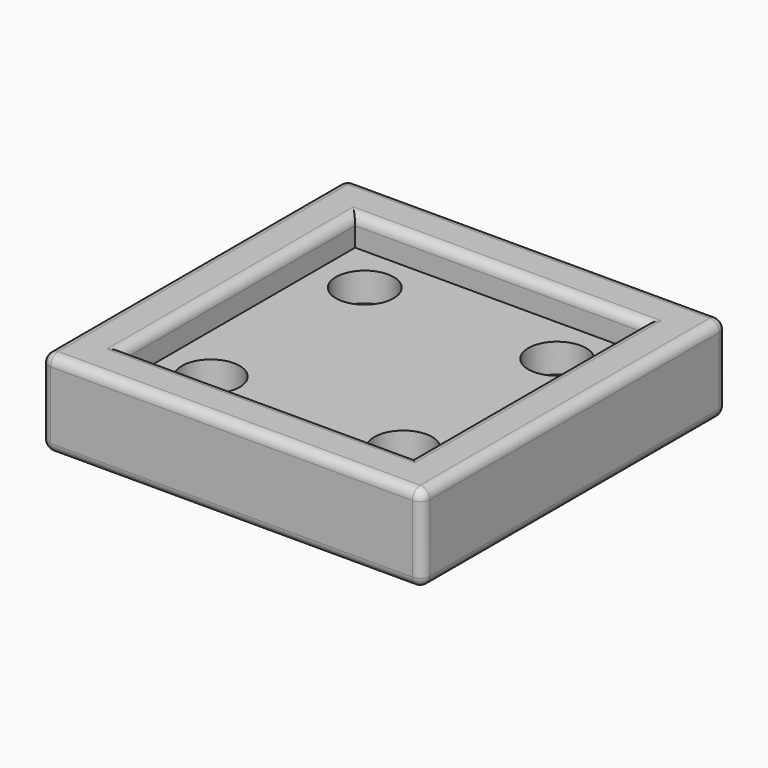
from build123d import *

# Parameters (mm, degrees)
SKETCH_W        = 39.6
SKETCH_H        = 39.6
PAD_DEPTH       = 9
SKETCH001_R     = 1.75
POCKET_DEPTH    = 10
SKETCH002_R     = 3
POCKET001_DEPTH = 6
SKETCH003_W     = 30
SKETCH003_H     = 30
POCKET002_DEPTH = 3
FILLET_R        = 1


with BuildPart() as part:
    # Sketch → Pad (new body)
    with BuildSketch(Plane.XY):
        with Locations((19.8, 19.8)):
            Rectangle(SKETCH_W, SKETCH_H)
    extrude(amount=PAD_DEPTH)

    # Sketch001 → Pocket (cut)
    with BuildSketch(Plane.XY.offset(9)):
        with Locations((9.8, 9.8)):
            Circle(SKETCH001_R)
        with Locations((9.8, 29.8)):
            Circle(SKETCH001_R)
        with Locations((29.8, 9.8)):
            Circle(SKETCH001_R)
        with Locations((29.8, 29.8)):
            Circle(SKETCH001_R)
    extrude(amount=-POCKET_DEPTH, mode=Mode.SUBTRACT)

    # Sketch002 → Pocket001 (cut)
    with BuildSketch(Plane.XY.offset(9)):
        with Locations((9.8, 9.8)):
            Circle(SKETCH002_R)
        with Locations((9.8, 29.8)):
            Circle(SKETCH002_R)
        with Locations((29.8, 9.8)):
            Circle(SKETCH002_R)
        with Locations((29.8, 29.8)):
            Circle(SKETCH002_R)
    extrude(amount=-POCKET001_DEPTH, mode=Mode.SUBTRACT)

    # Sketch003 → Pocket002 (cut)
    with BuildSketch(Plane.XY.offset(9)):
        with Locations((19.8, 19.8)):
            Rectangle(SKETCH003_W, SKETCH003_H)
    extrude(amount=-POCKET002_DEPTH, mode=Mode.SUBTRACT)

    # Fillet
    fillet_edges = [part.edges().sort_by_distance(p)[0] for p in [
        (0, 39.6, 4.5),
        (0, 0, 4.5),
        (39.6, 39.6, 4.5),
        (39.6, 0, 4.5),
        (39.6, 19.8, 0),
        (19.8, 39.6, 0),
        (0, 19.8, 0),
        (19.8, 0, 0),
        (19.8, 0, 9),
        (39.6, 19.8, 9),
        (19.8, 39.6, 9),
        (0, 19.8, 9),
        (19.8, 4.8, 9),
        (34.8, 19.8, 9),
        (19.8, 34.8, 9),
        (4.8, 19.8, 9),
    ]]
    fillet(fillet_edges, radius=FILLET_R)


solid = part.part
